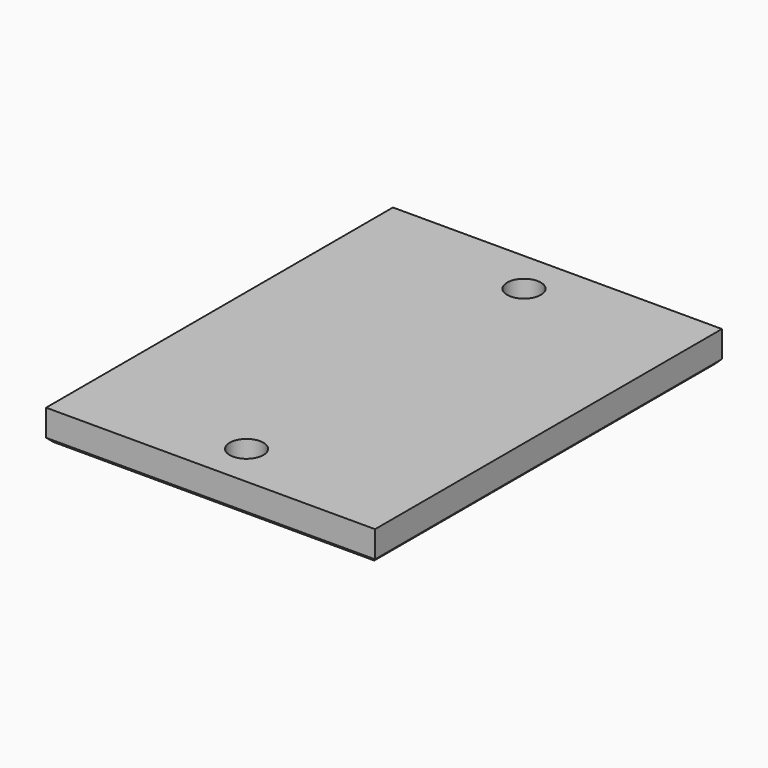
from build123d import *

# Parameters (mm, degrees)
CYLINDER043_R            = 1.65
CYLINDER043_DEPTH        = 10
CYLINDER044_R            = 1.65
CYLINDER044_DEPTH        = 10
BOX049_W                 = 32.25
BOX049_H                 = 42.5
BOX049_DEPTH             = 3
CHAMFER029006005013_SIZE = 0.4


with BuildPart() as cylinder043:
    # Cylinder043 → Cylinder043 (new body)
    with BuildSketch(Plane(origin=(24.25, 26, -13), x_dir=(1, 0, 0), z_dir=(0, 0, 1))):
        Circle(CYLINDER043_R)
    extrude(amount=CYLINDER043_DEPTH)


with BuildPart() as fusion006002011004053036004001_body:
    # Cylinder044 → Cylinder044 (new body)
    with BuildSketch(Plane(origin=(24.25, 60, -13), x_dir=(1, 0, 0), z_dir=(0, 0, 1))):
        Circle(CYLINDER044_R)
    extrude(amount=CYLINDER044_DEPTH)

    # Fusion006002011004053036004001028003011014: union Cylinder043
    add(cylinder043.part)


with BuildPart() as bottom_cover_r002:
    # Box049 → Box049 (new body)
    with BuildSketch(Plane(origin=(8, 21.75, -11), x_dir=(1, 0, 0), z_dir=(0, 0, 1))):
        with Locations((16.125, 21.25)):
            Rectangle(BOX049_W, BOX049_H)
    extrude(amount=BOX049_DEPTH)

    # Cut001024014003001002006005007: cut Fusion006002011004053036004001 body
    add(fusion006002011004053036004001_body.part, mode=Mode.SUBTRACT)

    # Chamfer029006005013
    chamfer029006005013_edges = [bottom_cover_r002.edges().sort_by_distance(p)[0] for p in [
        (8, 43, -11),
        (24.125, 21.75, -11),
        (24.125, 64.25, -11),
        (40.25, 43, -11),
        (22.6, 26, -11),
        (22.6, 60, -11),
    ]]
    chamfer(chamfer029006005013_edges, length=CHAMFER029006005013_SIZE)


solid = bottom_cover_r002.part
